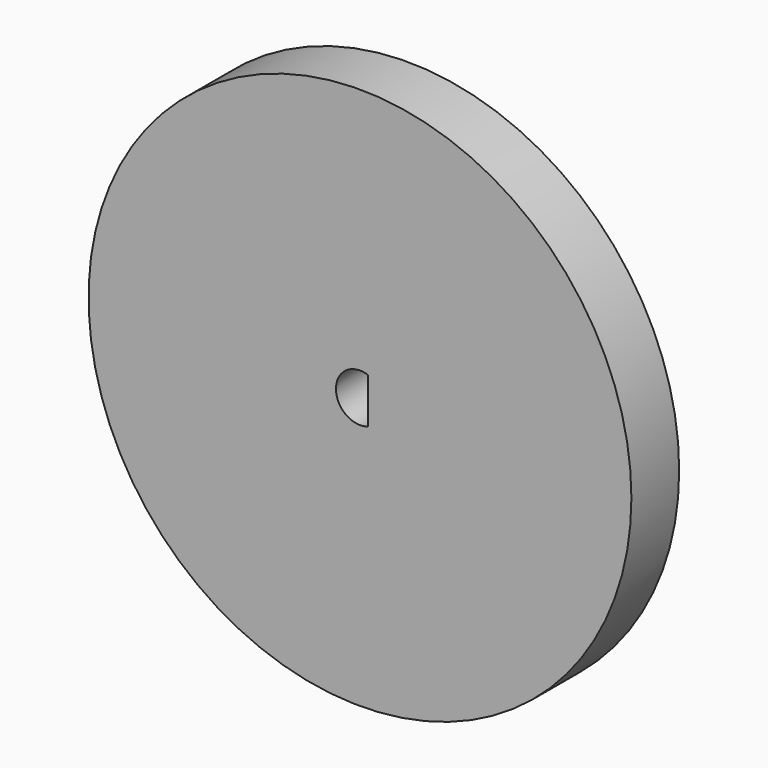
from build123d import *

# Parameters (mm, degrees)
F0_R     = 25.4
F1_DEPTH = 5.588


with BuildPart() as f1:
    # F0 (on Front) → F1 (new body)
    with BuildSketch(Plane.XZ):
        Circle(F0_R)
        with BuildLine():
            ThreePointArc((0.7493, 2.122034), (1.837217, 1.299659), (2.25044, 0))
            ThreePointArc((2.25044, 0), (1.837217, -1.299659), (0.7493, -2.122034))
            ThreePointArc((0.7493, -2.122034), (-2.25044, 0), (0.7493, 2.122034))
        make_face(mode=Mode.SUBTRACT)
        with BuildLine():
            ThreePointArc((0.7493, -2.122034), (1.837217, -1.299659), (2.25044, 0))
            ThreePointArc((2.25044, 0), (1.837217, 1.299659), (0.7493, 2.122034))
            Line((0.7493, 2.122034), (0.7493, -2.122034))
        make_face()
    extrude(amount=F1_DEPTH)


solid = f1.part
